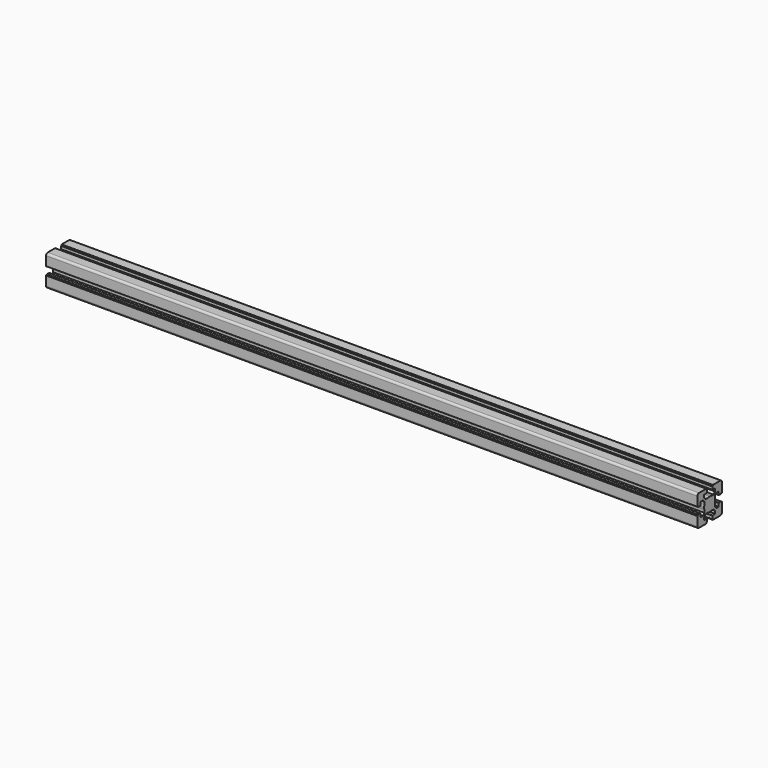
from build123d import *

# Parameters (mm, degrees)
F1_DEPTH = 952.5


with BuildPart() as f1:
    # F0 (on Right) → F1 (new body)
    with BuildSketch(Plane.YZ):
        with BuildLine():
            Line((-20.088481, -9.788837), (-20.088481, -10.288837))
            Line((-20.088481, -10.288837), (-21.28859, -10.288837))
            ThreePointArc((-21.28859, -10.288837), (-21.500722, -10.376705), (-21.58859, -10.588837))
            Line((-21.58859, -10.588837), (-21.58859, -23.988949))
            ThreePointArc((-21.58859, -23.988949), (-20.70991, -26.11027), (-18.58859, -26.988949))
            Line((-18.58859, -26.988949), (-5.188544, -26.988949))
            ThreePointArc((-5.188544, -26.988949), (-4.976411, -26.901081), (-4.888544, -26.688949))
            Line((-4.888544, -26.688949), (-4.888544, -25.488841))
            Line((-4.888544, -25.488841), (-4.388544, -25.488841))
            ThreePointArc((-4.388544, -25.488841), (-4.176411, -25.400973), (-4.088544, -25.188841))
            Line((-4.088544, -25.188841), (-4.088544, -21.288841))
            ThreePointArc((-4.088544, -21.288841), (-4.176411, -21.076709), (-4.388544, -20.988841))
            Line((-4.388544, -20.988841), (-9.138663, -20.988841))
            Line((-9.138663, -20.988841), (-9.138663, -16.881665))
            Line((-9.138663, -16.881665), (-6.245729, -13.988731))
            Line((-6.245729, -13.988731), (-2.211433, -13.988731))
            ThreePointArc((-2.211433, -13.988731), (-0.669869, -14.363044), (0.91149, -14.48887))
            Line((0.91149, -14.48887), (0.91149, -4.48887))
            Line((0.91149, -4.48887), (-9.08851, -4.48887))
            ThreePointArc((-9.08851, -4.48887), (-8.962684, -6.070229), (-8.588371, -7.611793))
            Line((-8.588371, -7.611793), (-8.588371, -11.646022))
            Line((-8.588371, -11.646022), (-11.481305, -14.538956))
            Line((-11.481305, -14.538956), (-15.588481, -14.538956))
            Line((-15.588481, -14.538956), (-15.588481, -9.788837))
            ThreePointArc((-15.588481, -9.788837), (-15.676349, -9.576705), (-15.888481, -9.488837))
            Line((-15.888481, -9.488837), (-19.788481, -9.488837))
            ThreePointArc((-19.788481, -9.488837), (-20.000613, -9.576705), (-20.088481, -9.788837))
        make_face()
        with BuildLine():
            ThreePointArc((-8.588371, -1.365947), (-8.962684, -2.907511), (-9.08851, -4.48887))
            Line((-9.08851, -4.48887), (0.91149, -4.48887))
            Line((0.91149, -4.48887), (0.91149, 5.51113))
            ThreePointArc((0.91149, 5.51113), (-0.669869, 5.385303), (-2.211433, 5.010991))
            Line((-2.211433, 5.010991), (-6.245729, 5.010991))
            Line((-6.245729, 5.010991), (-9.138663, 7.903925))
            Line((-9.138663, 7.903925), (-9.138663, 12.011101))
            Line((-9.138663, 12.011101), (-4.388544, 12.011101))
            ThreePointArc((-4.388544, 12.011101), (-4.176411, 12.098969), (-4.088544, 12.311101))
            Line((-4.088544, 12.311101), (-4.088544, 16.211101))
            ThreePointArc((-4.088544, 16.211101), (-4.176411, 16.423233), (-4.388544, 16.511101))
            Line((-4.388544, 16.511101), (-4.888544, 16.511101))
            Line((-4.888544, 16.511101), (-4.888544, 17.711209))
            ThreePointArc((-4.888544, 17.711209), (-4.976411, 17.923341), (-5.188544, 18.011209))
            Line((-5.188544, 18.011209), (-18.58859, 18.011209))
            ThreePointArc((-18.58859, 18.011209), (-20.70991, 17.13253), (-21.58859, 15.011209))
            Line((-21.58859, 15.011209), (-21.58859, 1.611097))
            ThreePointArc((-21.58859, 1.611097), (-21.500722, 1.398965), (-21.28859, 1.311097))
            Line((-21.28859, 1.311097), (-20.088481, 1.311097))
            Line((-20.088481, 1.311097), (-20.088481, 0.811097))
            ThreePointArc((-20.088481, 0.811097), (-20.000613, 0.598965), (-19.788481, 0.511097))
            Line((-19.788481, 0.511097), (-15.888481, 0.511097))
            ThreePointArc((-15.888481, 0.511097), (-15.676349, 0.598965), (-15.588481, 0.811097))
            Line((-15.588481, 0.811097), (-15.588481, 5.561216))
            Line((-15.588481, 5.561216), (-11.481305, 5.561216))
            Line((-11.481305, 5.561216), (-8.588371, 2.668282))
            Line((-8.588371, 2.668282), (-8.588371, -1.365947))
        make_face()
        with BuildLine():
            Line((0.91149, 5.51113), (0.91149, -4.48887))
            Line((0.91149, -4.48887), (10.91149, -4.48887))
            ThreePointArc((10.91149, -4.48887), (10.785663, -2.907511), (10.41135, -1.365947))
            Line((10.41135, -1.365947), (10.41135, 2.668282))
            Line((10.41135, 2.668282), (13.304285, 5.561216))
            Line((13.304285, 5.561216), (14.016842, 5.561216))
            Line((14.016842, 5.561216), (17.41146, 5.561216))
            Line((17.41146, 5.561216), (17.41146, 0.811097))
            ThreePointArc((17.41146, 0.811097), (17.499328, 0.598965), (17.71146, 0.511097))
            Line((17.71146, 0.511097), (21.61146, 0.511097))
            ThreePointArc((21.61146, 0.511097), (21.823593, 0.598965), (21.91146, 0.811097))
            Line((21.91146, 0.811097), (21.91146, 1.311097))
            Line((21.91146, 1.311097), (23.111569, 1.311097))
            ThreePointArc((23.111569, 1.311097), (23.323701, 1.398965), (23.411569, 1.611097))
            Line((23.411569, 1.611097), (23.411569, 15.011209))
            ThreePointArc((23.411569, 15.011209), (22.532889, 17.13253), (20.411569, 18.011209))
            Line((20.411569, 18.011209), (7.011523, 18.011209))
            ThreePointArc((7.011523, 18.011209), (6.799391, 17.923341), (6.711523, 17.711209))
            Line((6.711523, 17.711209), (6.711523, 16.511101))
            Line((6.711523, 16.511101), (6.211523, 16.511101))
            ThreePointArc((6.211523, 16.511101), (5.999391, 16.423233), (5.911523, 16.211101))
            Line((5.911523, 16.211101), (5.911523, 12.311101))
            ThreePointArc((5.911523, 12.311101), (5.999391, 12.098969), (6.211523, 12.011101))
            Line((6.211523, 12.011101), (10.961642, 12.011101))
            Line((10.961642, 12.011101), (10.961642, 7.903925))
            Line((10.961642, 7.903925), (8.068708, 5.010991))
            Line((8.068708, 5.010991), (4.034413, 5.010991))
            ThreePointArc((4.034413, 5.010991), (2.492849, 5.385303), (0.91149, 5.51113))
        make_face()
        with BuildLine():
            Line((10.91149, -4.48887), (0.91149, -4.48887))
            Line((0.91149, -4.48887), (0.91149, -14.48887))
            ThreePointArc((0.91149, -14.48887), (2.492849, -14.363044), (4.034413, -13.988731))
            Line((4.034413, -13.988731), (8.068708, -13.988731))
            Line((8.068708, -13.988731), (10.961642, -16.881665))
            Line((10.961642, -16.881665), (10.961642, -20.988841))
            Line((10.961642, -20.988841), (6.211523, -20.988841))
            ThreePointArc((6.211523, -20.988841), (5.999391, -21.076709), (5.911523, -21.288841))
            Line((5.911523, -21.288841), (5.911523, -25.188841))
            ThreePointArc((5.911523, -25.188841), (5.999391, -25.400973), (6.211523, -25.488841))
            Line((6.211523, -25.488841), (6.711523, -25.488841))
            Line((6.711523, -25.488841), (6.711523, -26.688949))
            ThreePointArc((6.711523, -26.688949), (6.799391, -26.901081), (7.011523, -26.988949))
            Line((7.011523, -26.988949), (20.411569, -26.988949))
            ThreePointArc((20.411569, -26.988949), (22.532889, -26.11027), (23.411569, -23.988949))
            Line((23.411569, -23.988949), (23.411569, -10.588837))
            ThreePointArc((23.411569, -10.588837), (23.323701, -10.376705), (23.111569, -10.288837))
            Line((23.111569, -10.288837), (21.91146, -10.288837))
            Line((21.91146, -10.288837), (21.91146, -9.788837))
            ThreePointArc((21.91146, -9.788837), (21.823593, -9.576705), (21.61146, -9.488837))
            Line((21.61146, -9.488837), (17.71146, -9.488837))
            ThreePointArc((17.71146, -9.488837), (17.499328, -9.576705), (17.41146, -9.788837))
            Line((17.41146, -9.788837), (17.41146, -14.538956))
            Line((17.41146, -14.538956), (13.304285, -14.538956))
            Line((13.304285, -14.538956), (10.41135, -11.646022))
            Line((10.41135, -11.646022), (10.41135, -7.611793))
            ThreePointArc((10.41135, -7.611793), (10.785663, -6.070229), (10.91149, -4.48887))
        make_face()
    extrude(amount=F1_DEPTH)


solid = f1.part
